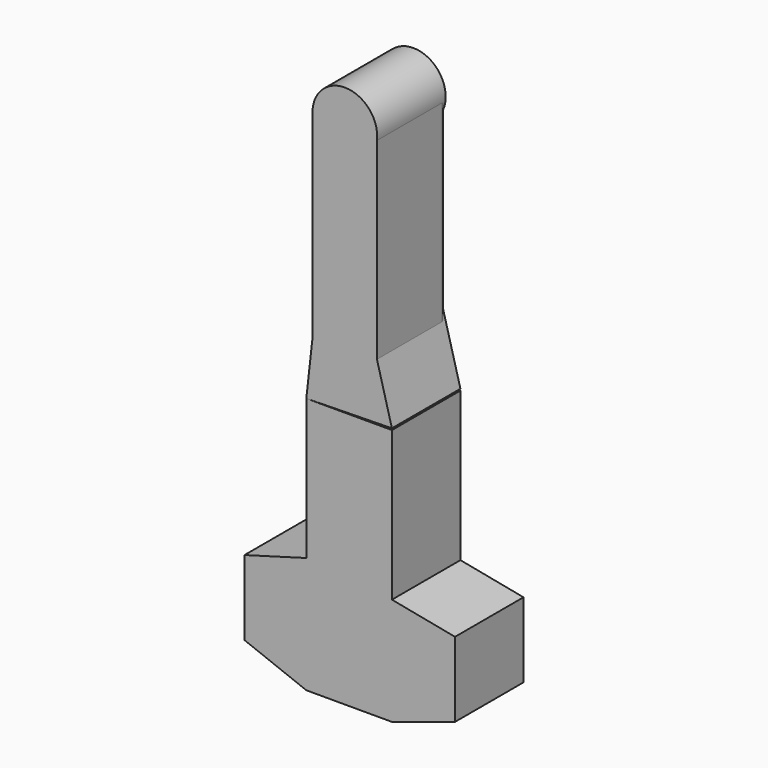
from build123d import *

# Parameters (mm, degrees)
F0_W     = 76.2
F0_H     = 228.6
F1_DEPTH = 101.6
F2_R     = 5.08


with BuildPart() as f1:
    # F0 (on Front) → F1 (new body)
    with BuildSketch(Plane.XZ):
        with BuildLine():
            ThreePointArc((39.425776, 109.618036), (1.325776, 152.574383), (-36.774224, 109.618036))
            Line((-36.774224, 109.618036), (39.425776, 109.618036))
        make_face()
        with Locations((1.325776, -4.681964)):
            Rectangle(F0_W, F0_H)
        Polygon((57.207876, -187.137551), (-44.392124, -187.137551), (-44.392124, -353.78424), (-44.392124, -491.937551), (57.207876, -491.937551), (57.207876, -364.252545), align=None)
        Polygon((39.425776, -118.981964), (-36.774224, -118.981964), (-44.392124, -187.137551), (57.189804, -185.221346), align=None)
        Polygon((-44.392124, -491.937551), (-44.392124, -353.78424), (-117.716409, -374.520421), (-117.716409, -463.420421), align=None)
        Polygon((132.02066, -378.726222), (57.207876, -364.252545), (57.207876, -491.937551), (132.02066, -467.626222), align=None)
    extrude(amount=F1_DEPTH)

    # F2
    f2_edges = [f1.edges().sort_by_distance(p)[0] for p in [
        (39.425776, 0, -4.681964),
    ]]
    fillet(f2_edges, radius=F2_R)


solid = f1.part
